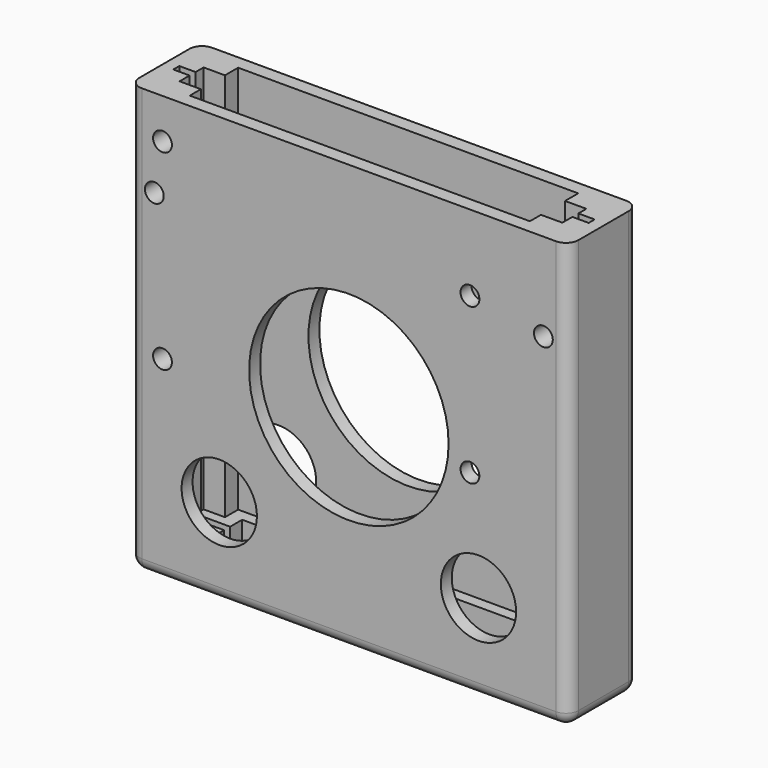
from build123d import *

# Parameters (mm, degrees)
F0_W     = 70
F0_H     = 14
F1_DEPTH = 68
F3_R     = 1.5
F3_R_2   = 15.895113
F3_R_3   = 6
F4_DEPTH = 14
F5_DEPTH = 65
F6_DEPTH = 62
F7_R     = 2
F8_W     = 50
F8_H     = 6
F9_DEPTH = 10


with BuildPart() as f1:
    # F0 (on Top) → F1 (new body)
    with BuildSketch(Plane.XY):
        with Locations((35, 7)):
            Rectangle(F0_W, F0_H)
    extrude(amount=F1_DEPTH)

    # F3 (on face) → F4 (cut)
    with BuildSketch(Plane.XZ):
        with Locations((5.3, 61.6)):
            Circle(F3_R)
        with BuildLine():
            ThreePointArc((5.5, 54), (4, 55.5), (2.5, 54))
            ThreePointArc((2.5, 54), (4, 52.5), (5.5, 54))
        make_face()
        with Locations((5.3, 31.1)):
            Circle(F3_R)
        with Locations((54.3, 31.1)):
            Circle(F3_R)
        with Locations((54.3, 55.9)):
            Circle(F3_R)
        with Locations((66, 54)):
            Circle(F3_R)
        with Locations((35, 34)):
            Circle(F3_R_2)
        with Locations((14.345588, 13.935714)):
            Circle(F3_R_3)
        with Locations((55.654412, 13.935714)):
            Circle(F3_R_3)
    extrude(amount=-F4_DEPTH, mode=Mode.SUBTRACT)

    # F2 (on face) → F5 (cut)
    with BuildSketch(Plane.XY.offset(68)):
        Polygon((65.5, 6.4), (68.1, 6.4), (68.1, 7.6), (65.5, 7.6), (4.5, 7.6), (1.9, 7.6), (1.9, 6.4), (4.5, 6.4), align=None)
    extrude(amount=-F5_DEPTH, mode=Mode.SUBTRACT)

    # F2 (on face) → F6 (cut)
    with BuildSketch(Plane.XY.offset(68)):
        Polygon((4.5, 7.6), (65.5, 7.6), (65.5, 9.190958), (62.1, 9.190958), (62.1, 11.817135), (7.9, 11.817135), (7.9, 9.190958), (4.5, 9.190958), align=None)
        Polygon((65.5, 4.4), (65.5, 6.4), (4.5, 6.4), (4.5, 4.4), (7.9, 4.4), (7.9, 2.182865), (62.1, 2.182865), (62.1, 4.4), align=None)
    extrude(amount=-F6_DEPTH, mode=Mode.SUBTRACT)

    # F7
    f7_edges = [f1.edges().sort_by_distance(p)[0] for p in [
        (0, 0, 34),
        (0, 14, 34),
        (70, 0, 34),
        (70, 14, 34),
        (35, 0, 0),
        (35, 14, 0),
        (0, 7, 0),
        (70, 7, 0),
    ]]
    fillet(f7_edges, radius=F7_R)

    # F8 (on face) → F9 (cut)
    with BuildSketch(Plane(origin=(0, 0, 0), x_dir=(1, 0, 0), z_dir=(0, 0, -1))):
        with Locations((35, -7)):
            Rectangle(F8_W, F8_H)
    extrude(amount=-F9_DEPTH, mode=Mode.SUBTRACT)


solid = f1.part
